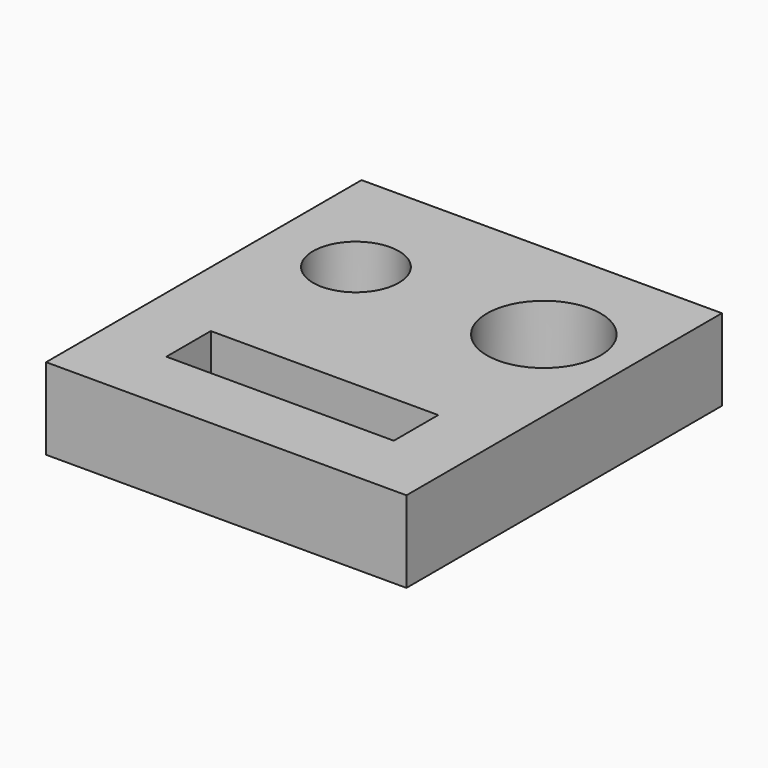
from build123d import *

# Parameters (mm, degrees)
SKETCH_W      = 44.193939
SKETCH_H      = 48.360676
SKETCH_R      = 6.97501
SKETCH_R_2    = 5.260158
SKETCH_W_2    = 27.894345
SKETCH_H_2    = 6.813885
EXTRUDE_DEPTH = 10


with BuildPart() as part:
    # Sketch → Extrude (new body)
    with BuildSketch(Plane.XY):
        with Locations((22.09697, 24.180338)):
            Rectangle(SKETCH_W, SKETCH_H)
        with Locations((33.621223, 34.272575)):
            Circle(SKETCH_R, mode=Mode.SUBTRACT)
        with Locations((10.837298, 33.953175)):
            Circle(SKETCH_R_2, mode=Mode.SUBTRACT)
        with Locations((22.229264, 11.488646)):
            Rectangle(SKETCH_W_2, SKETCH_H_2, mode=Mode.SUBTRACT)
    extrude(amount=EXTRUDE_DEPTH)


solid = part.part
